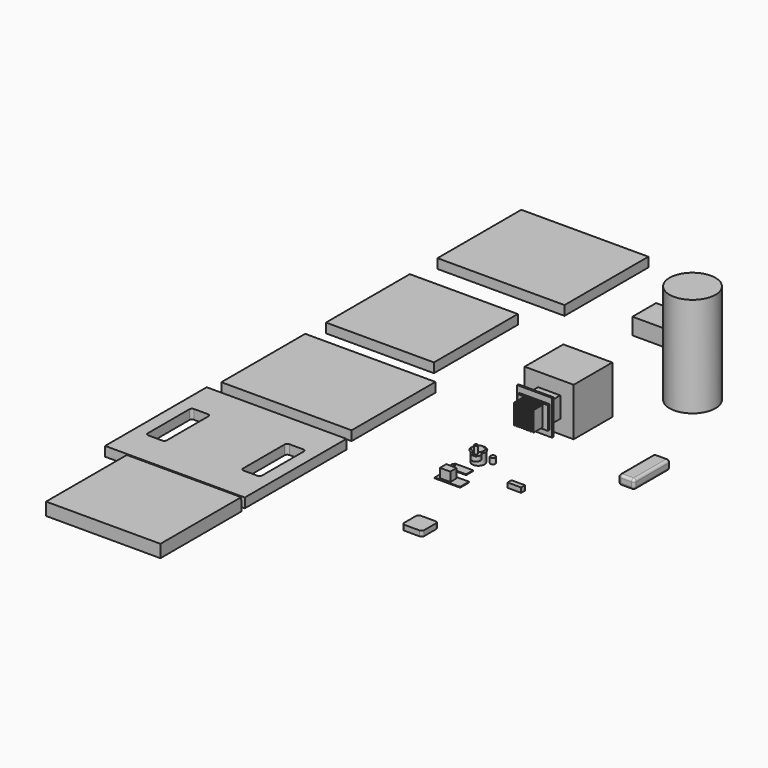
from build123d import *

# Parameters (mm, degrees)
F0_W      = 98
F0_H      = 96
F1_DEPTH  = 48.26
F2_W      = 86
F2_H      = 59
F3_DEPTH  = 33
F5_R      = 45.974
F6_DEPTH  = 199.898
F4_W      = 279.4
F4_H      = 254
F4_W_2    = 38.1
F4_H_2    = 114.3
F7_DEPTH  = 19.05
F4_W_3    = 260.35
F4_H_3    = 209.55
F4_W_4    = 215.9
F4_W_5    = 254
F8_W      = 44.45
F8_H      = 41.275
F9_DEPTH  = 33.02
F10_W     = 69.85
F10_H     = 69.85
F11_DEPTH = 3.302
F12_W     = 60.452
F12_H     = 44.9834
F13_DEPTH = 4.7625
F14_W     = 2.54
F14_H     = 39.6875
F14_W_2   = 2.286
F14_W_3   = 2.8575
F15_DEPTH = 22.225
F16_W     = 31.75
F16_H     = 90.4875
F17_DEPTH = 19.05
F18_R     = 5.08
F19_W     = 228.6
F19_H     = 203.2
F20_DEPTH = 25.4
F22_DEPTH = 663.747763742
F23_W     = 36.5125
F23_H     = 17.4625
F24_DEPTH = 1.5875
F25_W     = 4.7625
F25_H     = 7.9375
F26_DEPTH = 1.5875
F27_W     = 50.8
F27_H     = 22.225
F28_DEPTH = 1.5875
F29_W     = 20.6375
F29_H     = 15.875
F30_DEPTH = 18.25625
F31_R     = 8.5
F32_DEPTH = 9.5
F34_DEPTH = 2
F33_R     = 3
F35_DEPTH = 15.5
F36_R     = 5
F37_DEPTH = 11.1125
F38_R     = 3
F39_DEPTH = 7.9375
F40_R     = 13.9573
F41_DEPTH = 1.9304
F42_R     = 12.4587
F43_DEPTH = 21.5392
F44_SIZE2 = 1.7319700511
F44_SIZE  = 2.667
F45_R     = 9.9949
F46_DEPTH = 0.127
F47_W     = 27.0002
F47_H     = 9.7536
F48_DEPTH = 9.5758
F49_W     = 39.9796
F49_H     = 39.9796
F50_DEPTH = 10.4394
F51_R     = 5.08
F52_R     = 5.08


with BuildPart() as f1:
    # F0 (on Front) → F1 (new body, symmetric)
    with BuildSketch(Plane.XZ):
        Rectangle(F0_W, F0_H)
    extrude(amount=F1_DEPTH, both=True)

    # F8 (on face) → F9 (join)
    with BuildSketch(Plane.XZ.offset(48.26)):
        Rectangle(F8_W, F8_H)
    extrude(amount=F9_DEPTH)

    # F10 (on face) → F11 (join)
    with BuildSketch(Plane.XZ.offset(81.28)):
        Rectangle(F10_W, F10_H)
    extrude(amount=F11_DEPTH)

    # F12 (on face) → F13 (join)
    with BuildSketch(Plane.XZ.offset(84.582)):
        Rectangle(F12_W, F12_H)
    extrude(amount=F13_DEPTH)

    # F14 (on face) → F15 (join)
    with BuildSketch(Plane.XZ.offset(89.3445)):
        with Locations((-18.57375, 0)):
            Rectangle(F14_W, F14_H)
        with Locations((-13.87475, 0)):
            Rectangle(F14_W_2, F14_H)
        with Locations((-9.30275, 0)):
            Rectangle(F14_W_2, F14_H)
        with Locations((-4.73075, 0)):
            Rectangle(F14_W_2, F14_H)
        with Locations((-0.15875, 0)):
            Rectangle(F14_W_2, F14_H)
        with Locations((4.41325, 0)):
            Rectangle(F14_W_2, F14_H)
        with Locations((8.98525, 0)):
            Rectangle(F14_W_2, F14_H)
        with Locations((13.55725, 0)):
            Rectangle(F14_W_2, F14_H)
        with Locations((18.415, 0)):
            Rectangle(F14_W_3, F14_H)
    extrude(amount=F15_DEPTH)


with BuildPart() as f3:
    # F2 (on Top) → F3 (new body)
    with BuildSketch(Plane.XY):
        with Locations((1.8690414727, 240.844861316)):
            Rectangle(F2_W, F2_H)
    extrude(amount=F3_DEPTH)


with BuildPart() as f6:
    # F5 (on Top) → F6 (new body)
    with BuildSketch(Plane.XY):
        with Locations((168.1261360645, 99.9049246311)):
            Circle(F5_R)
    extrude(amount=F6_DEPTH)


with BuildPart() as f7:
    # F4 (on Top) → F7 (new body)
    with BuildSketch(Plane.XY):
        with Locations((-288.24730196, -496.2235179901)):
            Rectangle(F4_W, F4_H)
        with Locations((-383.49730196, -496.2235179901)):
            Rectangle(F4_W_2, F4_H_2, mode=Mode.SUBTRACT)
        with Locations((-192.99730196, -496.2235179901)):
            Rectangle(F4_W_2, F4_H_2, mode=Mode.SUBTRACT)
    extrude(amount=F7_DEPTH)

    # F52
    f52_edges = [f7.edges().sort_by_distance(p)[0] for p in [
        (-402.547302, -439.073518, 9.525),
        (-364.447302, -439.073518, 9.525),
        (-364.447302, -553.373518, 9.525),
        (-173.947302, -553.373518, 9.525),
        (-402.547302, -553.373518, 9.525),
        (-212.047302, -553.373518, 9.525),
        (-212.047302, -439.073518, 9.525),
        (-173.947302, -439.073518, 9.525),
    ]]
    fillet(f52_edges, radius=F52_R)


with BuildPart() as f7b:
    # F4 (on Top) → F7, piece 2 (new body)
    with BuildSketch(Plane.XY):
        with Locations((-290.5066852093, -236.8779918432)):
            Rectangle(F4_W_3, F4_H_3)
    extrude(amount=F7_DEPTH)


with BuildPart() as f7c:
    # F4 (on Top) → F7, piece 3 (new body)
    with BuildSketch(Plane.XY):
        with Locations((-311.277216351, 22.6907624021)):
            Rectangle(F4_W_4, F4_H_3)
    extrude(amount=F7_DEPTH)


with BuildPart() as f7d:
    # F4 (on Top) → F7, piece 4 (new body)
    with BuildSketch(Plane.XY):
        with Locations((-292.227216351, 301.4491234064)):
            Rectangle(F4_W_5, F4_H_3)
    extrude(amount=F7_DEPTH)


with BuildPart() as f17:
    # F16 (on Top) → F17 (new body)
    with BuildSketch(Plane.XY):
        with Locations((273.2664570212, -152.0793894463)):
            Rectangle(F16_W, F16_H)
    extrude(amount=F17_DEPTH)

    # F18
    f18_edges = [f17.edges().sort_by_distance(p)[0] for p in [
        (273.266457, -106.835639, 19.05),
        (257.391457, -152.079389, 19.05),
        (273.266457, -197.323139, 19.05),
        (289.141457, -152.079389, 19.05),
        (257.391457, -197.323139, 9.525),
        (289.141457, -197.323139, 9.525),
        (273.266457, -197.323139, 0),
        (289.141457, -106.835639, 9.525),
        (257.391457, -106.835639, 9.525),
        (273.266457, -106.835639, 0),
        (257.391457, -152.079389, 0),
        (289.141457, -152.079389, 0),
    ]]
    fillet(f18_edges, radius=F18_R)


with BuildPart() as f20:
    # F19 (on Top) → F20 (new body)
    with BuildSketch(Plane.XY):
        with Locations((-260.3053067207, -735.7446797222)):
            Rectangle(F19_W, F19_H)
    extrude(amount=F20_DEPTH)

    # F21 (on face) → F22 (cut, through all)
    with BuildSketch(Plane(origin=(-374.6053067207, 0, 0), x_dir=(0, -1, 0), z_dir=(-1, 0, 0))):
        Polygon((634.1446797222, 25.4), (634.1446797222, 0), (635.5601732083, 25.4), align=None)
    extrude(amount=-F22_DEPTH, mode=Mode.SUBTRACT)


with BuildPart() as f24:
    # F23 (on Top) → F24 (new body)
    with BuildSketch(Plane.XY):
        with Locations((33.0355947169, -311.1591786146)):
            Rectangle(F23_W, F23_H)
    extrude(amount=F24_DEPTH)

    # F25 (on face) → F26 (join)
    with BuildSketch(Plane.XY.offset(1.5875)):
        with Locations((17.1605947169, -311.1591786146)):
            Rectangle(F25_W, F25_H)
    extrude(amount=F26_DEPTH)


with BuildPart() as f28:
    # F27 (on Top) → F28 (new body)
    with BuildSketch(Plane.XY):
        with Locations((45.0132843107, -347.7029566959)):
            Rectangle(F27_W, F27_H)
    extrude(amount=F28_DEPTH)

    # F29 (on face) → F30 (join)
    with BuildSketch(Plane.XY.offset(1.5875)):
        with Locations((37.8695343107, -347.7029566959)):
            Rectangle(F29_W, F29_H)
    extrude(amount=F30_DEPTH)


with BuildPart() as f32:
    # F31 (on Top) → F32 (new body)
    with BuildSketch(Plane.XY):
        with Locations((29.5129418373, -267.9631114006)):
            Circle(F31_R)
    extrude(amount=F32_DEPTH)

    # F33 (on face) → F34 (join)
    with BuildSketch(Plane.XY.offset(9.5)):
        with BuildLine():
            Line((30.3129418373, -275.1631114006), (28.7129418373, -275.1631114006))
            ThreePointArc((28.7129418373, -275.1631114006), (28.1129418373, -275.7631114006), (28.7129418373, -276.3631114006))
            Line((28.7129418373, -276.3631114006), (30.3129418373, -276.3631114006))
            ThreePointArc((30.3129418373, -276.3631114006), (30.9129418373, -275.7631114006), (30.3129418373, -275.1631114006))
        make_face()
    extrude(amount=F34_DEPTH)

    # F33 (on face) → F35 (join)
    with BuildSketch(Plane.XY.offset(9.5)):
        with Locations((29.5129418373, -267.9631114006)):
            Circle(F33_R)
    extrude(amount=F35_DEPTH)


with BuildPart() as f37:
    # F36 (on Top) → F37 (new body)
    with BuildSketch(Plane.XY):
        with Locations((58.0960698426, -261.473685503)):
            Circle(F36_R)
    extrude(amount=F37_DEPTH)

    # F38 (on face) → F39 (cut)
    with BuildSketch(Plane(origin=(0, 0, 0), x_dir=(1, 0, 0), z_dir=(0, 0, -1))):
        with Locations((58.0960698426, 261.473685503)):
            Circle(F38_R)
    extrude(amount=-F39_DEPTH, mode=Mode.SUBTRACT)


with BuildPart() as f41:
    # F40 (on Top) → F41 (new body)
    with BuildSketch(Plane.XY):
        with Locations((10.4218823835, -238.235488534)):
            Circle(F40_R)
    extrude(amount=-F41_DEPTH)

    # F42 (on face) → F43 (join)
    with BuildSketch(Plane(origin=(0, 0, -1.9304), x_dir=(1, 0, 0), z_dir=(0, 0, -1))):
        with Locations((10.4218823835, 238.235488534)):
            Circle(F42_R)
    extrude(amount=F43_DEPTH)

    # F44
    f44_edges = [f41.edges().sort_by_distance(p)[0] for p in [
        (-3.535418, -238.235489, 0),
    ]]
    f44_side = f41.faces().sort_by_distance((10.421882, -238.235489, 0))[0]
    chamfer(f44_edges, length=F44_SIZE, length2=F44_SIZE2, reference=f44_side)

    # F45 (on face) → F46 (cut)
    with BuildSketch(Plane.XY):
        with Locations((10.4218823835, -238.235488534)):
            Circle(F45_R)
    extrude(amount=-F46_DEPTH, mode=Mode.SUBTRACT)


with BuildPart() as f48:
    # F47 (on Top) → F48 (new body)
    with BuildSketch(Plane.XY):
        with Locations((142.1456038952, -308.1043236504)):
            Rectangle(F47_W, F47_H)
    extrude(amount=F48_DEPTH)


with BuildPart() as f50:
    # F49 (on Top) → F50 (new body)
    with BuildSketch(Plane.XY):
        with Locations((108.76677419, -506.7673325539)):
            Rectangle(F49_W, F49_H)
    extrude(amount=F50_DEPTH)

    # F51
    f51_edges = [f50.edges().sort_by_distance(p)[0] for p in [
        (128.756574, -526.757133, 5.2197),
        (128.756574, -486.777533, 5.2197),
        (88.776974, -526.757133, 5.2197),
        (88.776974, -486.777533, 5.2197),
    ]]
    fillet(f51_edges, radius=F51_R)


solid = Compound([f1.part, f3.part, f6.part, f7.part, f7b.part, f7c.part, f7d.part, f17.part, f20.part, f24.part, f28.part, f32.part, f37.part, f41.part, f48.part, f50.part])
